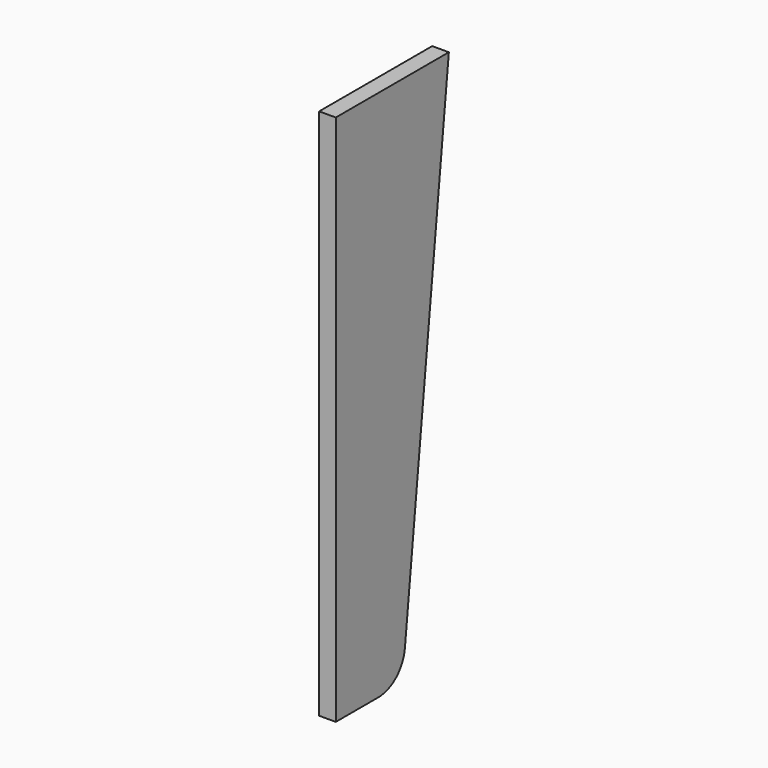
from build123d import *

# Parameters (mm, degrees)
F1_DEPTH = 2


with BuildPart() as f1:
    # F0 (on Right) → F1 (new body)
    with BuildSketch(Plane.YZ):
        with BuildLine():
            Line((-31.581388, 42.197842), (-48.581388, 42.197842))
            Line((-48.581388, 42.197842), (-48.581388, -21.802158))
            Line((-48.581388, -21.802158), (-42.167742, -21.802158))
            ThreePointArc((-42.167742, -21.802158), (-39.497501, -20.780381), (-38.191456, -18.237064))
            Line((-38.191456, -18.237064), (-31.581388, 42.197842))
        make_face()
    extrude(amount=F1_DEPTH)


solid = f1.part
